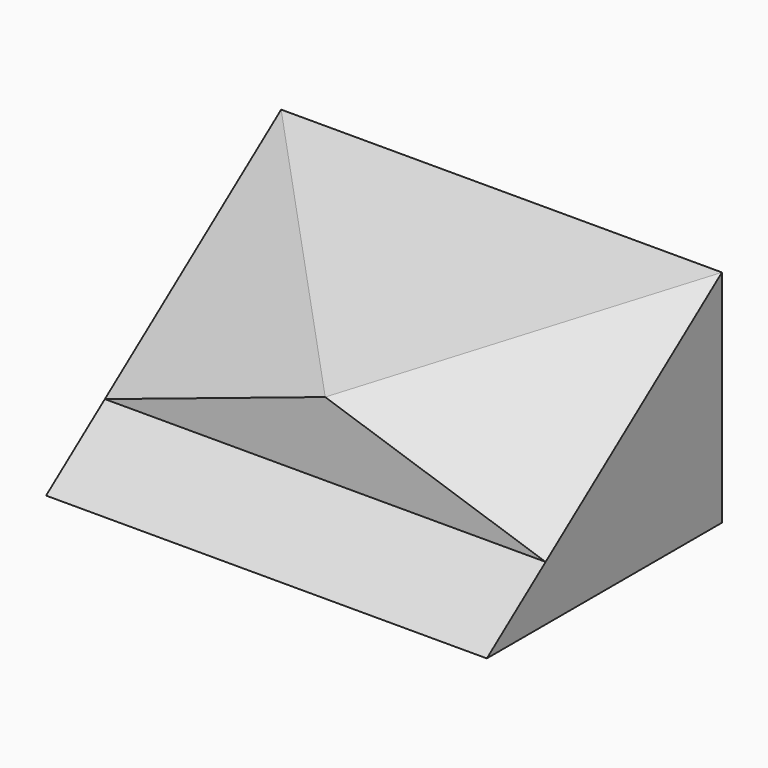
from build123d import *

# Parameters (mm, degrees)
F1_DEPTH  = 6
F11_DEPTH = 6
F12_DEPTH = 25
F13_DEPTH = 25


with BuildPart() as f1:
    # F0 (on Right) → F1 (new body)
    with BuildSketch(Plane.YZ):
        Polygon((4, 3), (0, 0), (4, 0), align=None)
    extrude(amount=F1_DEPTH)

    # F10 (on face) → F11 (join)
    with BuildSketch(Plane.YZ.offset(6)):
        Polygon((1, 1.75), (1, 0.75), (4, 3), align=None)
    extrude(amount=-F11_DEPTH)

    # F9 (on 3pt) → F12 (cut)
    with BuildSketch(Plane(origin=(0.398340249, -0.8962655602, 1.1950207469), x_dir=(0.9662349396, 0.1545975903, -0.2061301204), z_dir=(-0.2576626506, 0.5797409638, -0.7729879517))):
        Polygon((5.7974096376, -1.25), (2.6925746984, -1.85), (5.7974096376, -5), align=None)
    extrude(amount=-F12_DEPTH, mode=Mode.SUBTRACT)

    # F7 (on 3pt) → F13 (cut)
    with BuildSketch(Plane(origin=(0, 0, 0), x_dir=(0.9662349396, -0.1545975903, 0.2061301204), z_dir=(-0.2576626506, -0.5797409638, 0.7729879517))):
        Polygon((3.1048349393, 1.85), (0, 5), (0, 1.25), align=None)
    extrude(amount=F13_DEPTH, mode=Mode.SUBTRACT)


solid = f1.part
